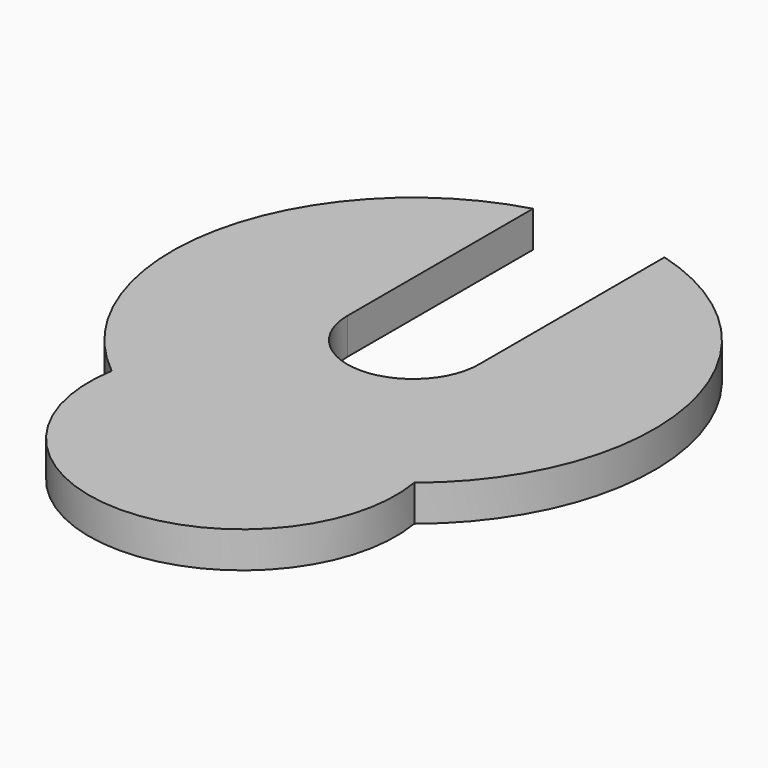
from build123d import *

# Parameters (mm, degrees)
F1_DEPTH = 1.65


with BuildPart() as f1:
    # F0 (on Top) → F1 (new body)
    with BuildSketch(Plane.XY):
        with BuildLine():
            Line((-3, 0), (-3, 10.583005))
            ThreePointArc((-3, 10.583005), (-10.778469, 2.196498), (-6.902109, -8.565097))
            ThreePointArc((-6.902109, -8.565097), (0, -11), (6.902109, -8.565097))
            ThreePointArc((6.902109, -8.565097), (10.778469, 2.196498), (3, 10.583005))
            Line((3, 10.583005), (3, 0))
            ThreePointArc((3, 0), (0, -3), (-3, 0))
        make_face()
        with BuildLine():
            ThreePointArc((6.902109, -8.565097), (0, -11), (-6.902109, -8.565097))
            ThreePointArc((-6.902109, -8.565097), (0, -16.731671), (6.902109, -8.565097))
        make_face()
    extrude(amount=F1_DEPTH)


solid = f1.part
